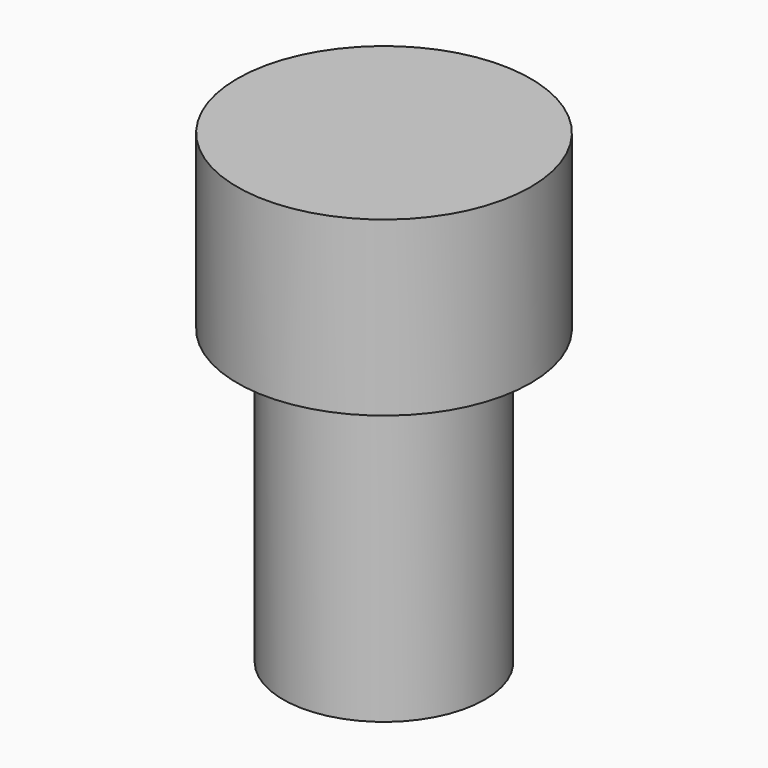
from build123d import *

# Parameters (mm, degrees)
SKETCH136_R   = 5.85
PAD069_DEPTH  = 2
SKETCH095_R   = 5.85
SKETCH095_R_2 = 3.75
PAD070_DEPTH  = 15
SKETCH096_R   = 8.5
PAD071_DEPTH  = 10


with BuildPart() as part:
    # Sketch136 → Pad069 (new body)
    with BuildSketch(Plane.XY):
        with Locations((-1.1, 0.5)):
            Circle(SKETCH136_R)
        Polygon((-4.408918, 5.231215), (-6.851811, 0), (-3.542893, -4.731215), (2.208918, -4.231215), (4.651811, 1), (1.342893, 5.731215), align=None, mode=Mode.SUBTRACT)
    extrude(amount=PAD069_DEPTH)

    # Sketch095 (on Face9 of Pad069) → Pad070 (join)
    with BuildSketch(Plane.XY.offset(2)):
        with Locations((-1.1, 0.5)):
            Circle(SKETCH095_R)
        with Locations((-1.1, 0.5)):
            Circle(SKETCH095_R_2, mode=Mode.SUBTRACT)
    extrude(amount=PAD070_DEPTH)

    # Sketch096 (on Face10 of Pad070) → Pad071 (join)
    with BuildSketch(Plane.XY.offset(17)):
        with Locations((-1.1, 0.5)):
            Circle(SKETCH096_R)
    extrude(amount=PAD071_DEPTH)


with BuildPart() as part_1:
    # Body010 placement: moved
    add(part.part.moved(Location((-5, -0.5, 43))))


solid = part_1.part
